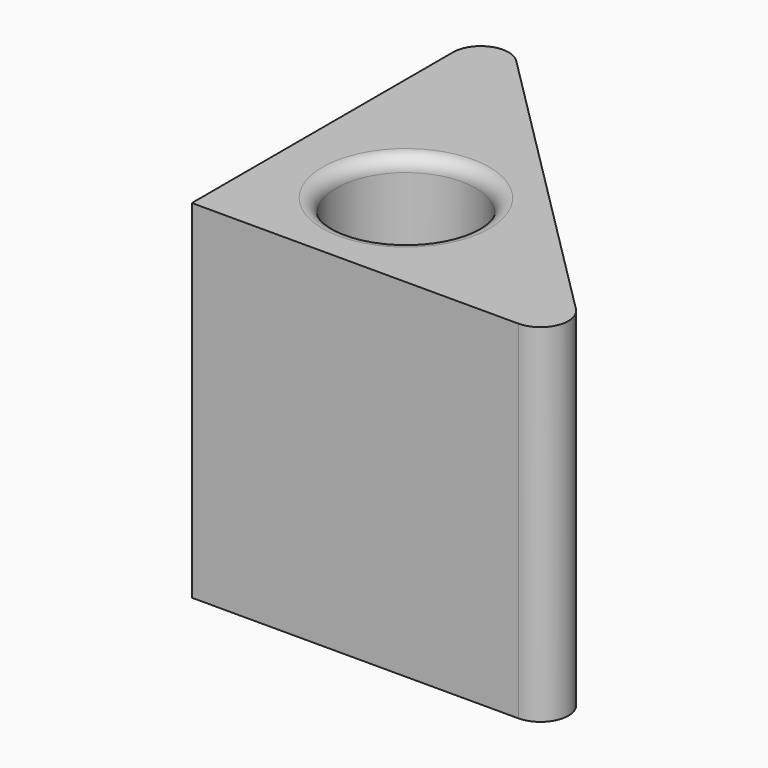
from build123d import *

# Parameters (mm, degrees)
F0_R     = 5
F1_DEPTH = 25
F2_R     = 2
F3_R     = 1


with BuildPart() as f1:
    # F0 (on Top) → F1 (new body)
    with BuildSketch(Plane.XY):
        Polygon((0, 28.313708), (0, 0), (28.313708, 0), align=None)
        with Locations((9, 8)):
            Circle(F0_R, mode=Mode.SUBTRACT)
    extrude(amount=F1_DEPTH)

    # F2
    f2_edges = [f1.edges().sort_by_distance(p)[0] for p in [
        (0, 28.313708, 12.5),
        (28.313708, 0, 12.5),
    ]]
    fillet(f2_edges, radius=F2_R)

    # F3
    f3_edges = [f1.edges().sort_by_distance(p)[0] for p in [
        (14, 8, 12.5),
        (4, 8, 0),
        (4, 8, 25),
    ]]
    fillet(f3_edges, radius=F3_R)


solid = f1.part
